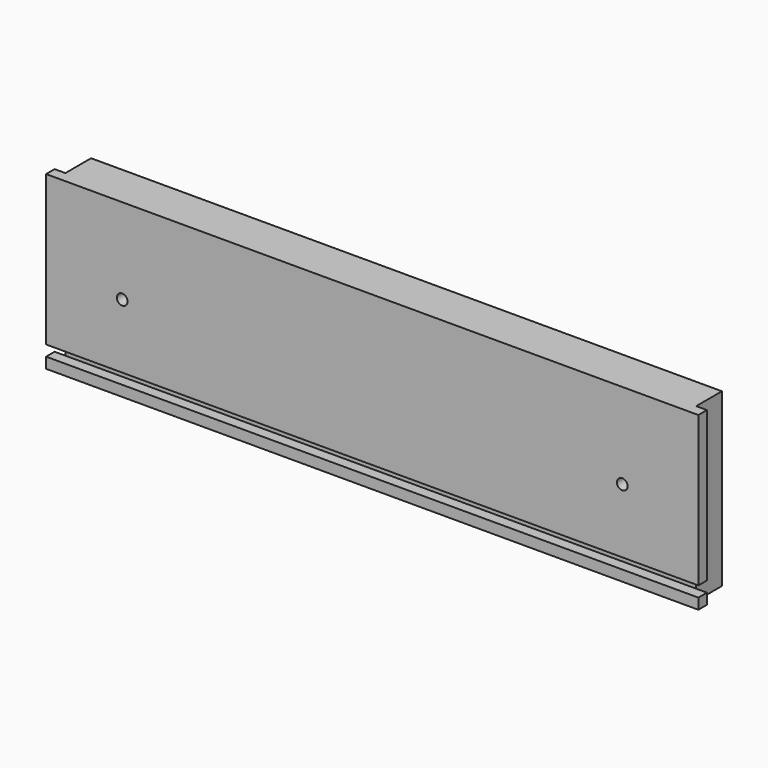
from build123d import *

# Parameters (mm, degrees)
SKETCH047_W             = 182.6
SKETCH047_H             = 48
PAD017_DEPTH            = 12
SKETCH048_W             = 3
SKETCH048_H             = 48
POCKET030_DEPTH         = 9
SKETCH049_W             = 182.6
SKETCH049_H             = 3
POCKET031_DEPTH         = 3
SKETCH054_R             = 1.5
POCKET033_DEPTH         = 12
BODY015_PLACEMENT_ANGLE = 90
BODY018_PLACEMENT_ANGLE = 180


with BuildPart() as part:
    # Sketch047 → Pad017 (new body)
    with BuildSketch(Plane.XY):
        with Locations((0, 24)):
            Rectangle(SKETCH047_W, SKETCH047_H)
    extrude(amount=PAD017_DEPTH)

    # Sketch048 → Pocket030 (cut)
    with BuildSketch(Plane.XY.offset(12)):
        with Locations((-89.8, 24)):
            Rectangle(SKETCH048_W, SKETCH048_H)
    pocket030 = extrude(amount=-POCKET030_DEPTH, mode=Mode.SUBTRACT)

    # Mirrored002: Pocket030 across Sketch048 V_Axis
    add(pocket030.mirror(Plane(origin=(0, 0, 12), x_dir=(0, 0, 1), z_dir=(1, 0, 0))), mode=Mode.SUBTRACT)

    # Sketch049 → Pocket031 (cut)
    with BuildSketch(Plane(origin=(0, 0, 0), x_dir=(1, 0, 0), z_dir=(0, 0, -1))):
        with Locations((0, -4.5)):
            Rectangle(SKETCH049_W, SKETCH049_H)
    extrude(amount=-POCKET031_DEPTH, mode=Mode.SUBTRACT)

    # Sketch054 → Pocket033 (cut)
    with BuildSketch(Plane.XY.offset(12)):
        with Locations((-70, 24)):
            Circle(SKETCH054_R)
    pocket033 = extrude(amount=-POCKET033_DEPTH, mode=Mode.SUBTRACT)

    # Mirrored003: Pocket033 across Sketch054 V_Axis
    add(pocket033.mirror(Plane(origin=(0, 0, 12), x_dir=(0, 0, 1), z_dir=(1, 0, 0))), mode=Mode.SUBTRACT)


with BuildPart() as part_1:
    # Body015 placement: moved
    add(part.part.moved(Location((0, 12, 0))).rotate(Axis((0, 12, 0), (1, 0, 0)), BODY015_PLACEMENT_ANGLE))


with BuildPart() as part_2:
    # Body018 placement: moved
    add(part_1.part.moved(Location((0, 206, 0))).rotate(Axis((0, 206, 0), (0, 0, 1)), BODY018_PLACEMENT_ANGLE))


solid = part_2.part
